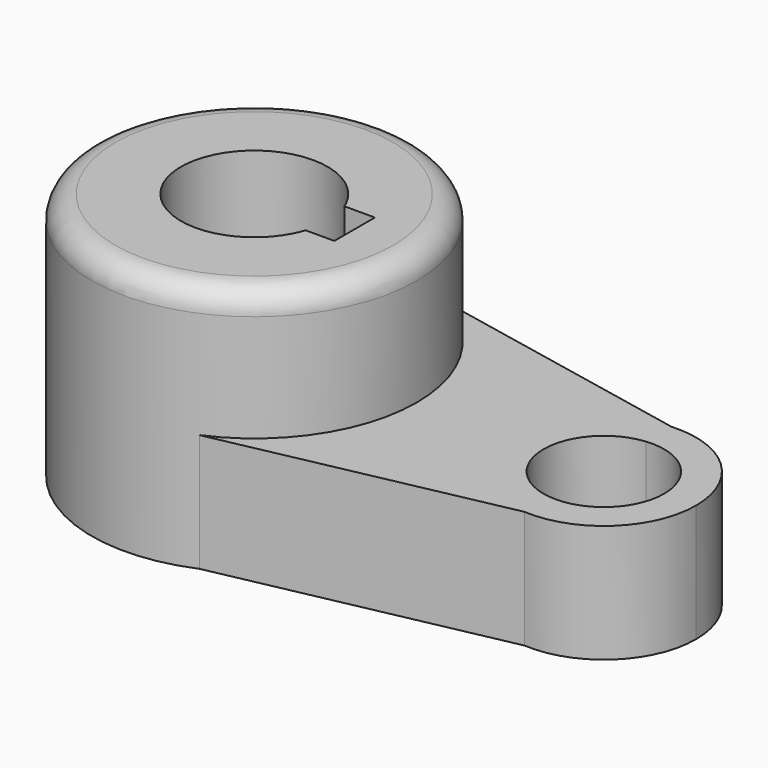
from build123d import *

# Parameters (mm, degrees)
F1_DEPTH = 53.594
F2_DEPTH = 25.4
F3_R     = 5.08


with BuildPart() as f1:
    # F0 (on Top) → F1 (new body)
    with BuildSketch(Plane.XY):
        with BuildLine():
            Line((14.2938200345, 6.8228022219), (14.5426443405, 31.9357120423))
            ThreePointArc((14.5426443405, 31.9357120423), (-35.0892765953, 0.3476723709), (13.9069990558, -32.217597448))
            Line((13.9069990558, -32.217597448), (14.1558233618, -7.1046876277))
            ThreePointArc((14.1558233618, -7.1046876277), (-15.8379069236, 0.1569255107), (14.2938200345, 6.8228022219))
        make_face()
        with BuildLine():
            ThreePointArc((13.9069990558, -32.217597448), (29.3205448233, -19.2791042148), (35.0909989607, 0))
            ThreePointArc((35.0909989607, 0), (29.5101179725, 18.98765771), (14.5426443405, 31.9357120423))
            Line((14.5426443405, 31.9357120423), (14.2938200345, 6.8228022219))
            ThreePointArc((14.2938200345, 6.8228022219), (14.4908058573, 6.3937834608), (14.6749184523, 5.9590846408))
            Line((14.6749184523, 5.9590846408), (21.2465617806, 5.9590846408))
            Line((21.2465617806, 5.9590846408), (21.2465617806, 0))
            Line((21.2465617806, 0), (21.2465617806, -4.9716657959))
            Line((21.2465617806, -4.9716657959), (15.0381667949, -4.9716657959))
            ThreePointArc((15.0381667949, -4.9716657959), (14.6359048525, -6.0542720856), (14.1558233618, -7.1046876277))
            Line((14.1558233618, -7.1046876277), (13.9069990558, -32.217597448))
        make_face()
    extrude(amount=F1_DEPTH)

    # F0 (on Top) → F2 (join)
    with BuildSketch(Plane.XY):
        with BuildLine():
            ThreePointArc((14.5426443405, 31.9357120423), (29.5101179725, 18.98765771), (35.0909989607, 0))
            ThreePointArc((35.0909989607, 0), (29.3205448233, -19.2791042148), (13.9069990558, -32.217597448))
            Line((13.9069990558, -32.217597448), (74.1487775429, -19.8608903789))
            ThreePointArc((74.1487775429, -19.8608903789), (55.5140801332, 0), (74.1487775429, 19.8608903789))
            Line((74.1487775429, 19.8608903789), (14.5426443405, 31.9357120423))
        make_face()
        with BuildLine():
            ThreePointArc((95.3165463545, 0), (89.0324615704, 14.5131785208), (74.1487775429, 19.8608903789))
            Line((74.1487775429, 19.8608903789), (74.1487775429, 12.9542538791))
            ThreePointArc((74.1487775429, 12.9542538791), (84.1597843769, 9.6411114946), (88.4313343812, 0))
            ThreePointArc((88.4313343812, 0), (84.1597843769, -9.6411114946), (74.1487775429, -12.9542538791))
            Line((74.1487775429, -12.9542538791), (74.1487775429, -19.8608903789))
            ThreePointArc((74.1487775429, -19.8608903789), (89.0324615704, -14.5131785208), (95.3165463545, 0))
        make_face()
        with BuildLine():
            Line((74.1487775429, 12.9542538791), (74.1487775429, 19.8608903789))
            ThreePointArc((74.1487775429, 19.8608903789), (55.5140801332, 0), (74.1487775429, -19.8608903789))
            Line((74.1487775429, -19.8608903789), (74.1487775429, -12.9542538791))
            ThreePointArc((74.1487775429, -12.9542538791), (62.3992921066, 0), (74.1487775429, 12.9542538791))
        make_face()
    extrude(amount=F2_DEPTH)

    # F3
    f3_edges = [f1.edges().sort_by_distance(p)[0] for p in [
        (-13.906999, 32.217597, 53.594),
    ]]
    fillet(f3_edges, radius=F3_R)


solid = f1.part
